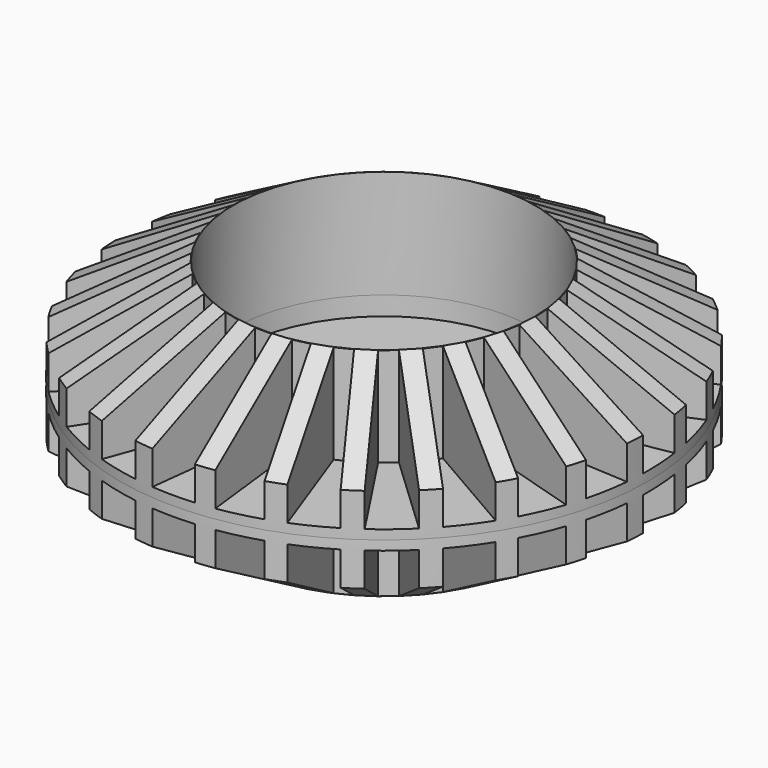
from build123d import *

# Parameters (mm, degrees)
F0_R      = 88.9
F0_R_2    = 50.8
F1_DEPTH  = 50.8
F2_DEPTH  = 6.35
F3_R      = 50.8
F4_DEPTH  = 38.1
F7_R      = 12.7
F8_DEPTH  = 25.4
F9_DEPTH  = 9.525
F11_R     = 50.8
F12_DEPTH = 3.175
F13_R     = 12.7
F14_DEPTH = 25.4


with BuildPart() as f1:
    # F0 (on Top) → F1 (new body)
    with BuildSketch(Plane.XY):
        Circle(F0_R)
        Circle(F0_R_2, mode=Mode.SUBTRACT)
    extrude(amount=F1_DEPTH)

    # F0 (on Top) → F2 (join)
    with BuildSketch(Plane.XY):
        Circle(F0_R_2)
    extrude(amount=F2_DEPTH)

    # F3 (on face) → F4 (cut)
    with BuildSketch(Plane.XY.offset(50.8)):
        with BuildLine():
            ThreePointArc((54.6751720039, 70.0987558117), (48.8513481505, 74.2748664346), (42.7100773231, 77.968322382))
            Line((42.7100773231, 77.968322382), (25.6362819872, 43.9716007313))
            ThreePointArc((25.6362819872, 43.9716007313), (27.9695245399, 42.5255960806), (30.2214194652, 40.9559083712))
            Line((30.2214194652, 40.9559083712), (54.6751720039, 70.0987558117))
        make_face()
        with BuildLine():
            ThreePointArc((37.035510057, 80.8181971762), (30.4055907417, 83.5386739879), (23.5780891048, 85.7162978328))
            Line((23.5780891048, 85.7162978328), (14.8047036978, 48.6984740358))
            ThreePointArc((14.8047036978, 48.6984740358), (17.4085250171, 47.8295293906), (19.9617147212, 46.8214755256))
            Line((19.9617147212, 46.8214755256), (37.035510057, 80.8181971762))
        make_face()
        with BuildLine():
            ThreePointArc((17.3992541767, 87.180708612), (10.3206600657, 88.2988900033), (3.175, 88.8432854807))
            Line((3.175, 88.8432854807), (3.175, 50.8))
            ThreePointArc((3.175, 50.8), (5.9090274047, 50.554960391), (8.6258687696, 50.1628848151))
            Line((8.6258687696, 50.1628848151), (17.3992541767, 87.180708612))
        make_face()
        with BuildLine():
            Line((-3.175, 50.8), (-3.175, 88.8432854807))
            ThreePointArc((-3.175, 88.8432854807), (-10.3206600657, 88.2988900033), (-17.3992541767, 87.180708612))
            Line((-17.3992541767, 87.180708612), (-8.6258687696, 50.1628848151))
            ThreePointArc((-8.6258687696, 50.1628848151), (-5.9090274047, 50.554960391), (-3.175, 50.8))
        make_face()
        with BuildLine():
            Line((-14.8047036978, 48.6984740358), (-23.5780891048, 85.7162978328))
            ThreePointArc((-23.5780891048, 85.7162978328), (-30.4055907417, 83.5386739879), (-37.035510057, 80.8181971762))
            Line((-37.035510057, 80.8181971762), (-19.9617147212, 46.8214755256))
            ThreePointArc((-19.9617147212, 46.8214755256), (-17.4085250171, 47.8295293906), (-14.8047036978, 48.6984740358))
        make_face()
        with BuildLine():
            Line((-25.6362819872, 43.9716007313), (-42.7100773231, 77.968322382))
            ThreePointArc((-42.7100773231, 77.968322382), (-48.8513481505, 74.2748664346), (-54.6751720039, 70.0987558117))
            Line((-54.6751720039, 70.0987558117), (-30.2214194652, 40.9559083712))
            ThreePointArc((-30.2214194652, 40.9559083712), (-27.9695245399, 42.5255960806), (-25.6362819872, 43.9716007313))
        make_face()
        with BuildLine():
            Line((-35.085801679, 36.8742070497), (-59.5395542177, 66.0170544901))
            ThreePointArc((-59.5395542177, 66.0170544901), (-64.6635167358, 61.0068816065), (-69.3672812759, 55.6002723769))
            Line((-69.3672812759, 55.6002723769), (-38.8518796633, 32.8823975955))
            ThreePointArc((-38.8518796633, 32.8823975955), (-37.0226797551, 34.9290968786), (-35.085801679, 36.8742070497))
        make_face()
        with BuildLine():
            Line((-42.6438367206, 27.7889153215), (-73.1592383333, 50.5067901029))
            ThreePointArc((-73.1592383333, 50.5067901029), (-76.9896583964, 44.45), (-80.3197824593, 38.1043638667))
            Line((-80.3197824593, 38.1043638667), (-45.3878249723, 23.0361882541))
            ThreePointArc((-45.3878249723, 23.0361882541), (-44.0799327217, 25.4495610227), (-42.6438367206, 27.7889153215))
        make_face()
        with BuildLine():
            Line((-47.9029314867, 17.2055159754), (-82.8348889737, 32.273691588))
            ThreePointArc((-82.8348889737, 32.273691588), (-85.1652676448, 25.496807388), (-86.9422233803, 18.5542392375))
            Line((-86.9422233803, 18.5542392375), (-49.4769008889, 11.9480920413))
            ThreePointArc((-49.4769008889, 11.9480920413), (-48.7608251056, 14.5980327448), (-47.9029314867, 17.2055159754))
        make_face()
        with BuildLine():
            Line((-50.5795668171, 5.6945628097), (-88.0448893085, 12.3007100058))
            ThreePointArc((-88.0448893085, 12.3007100058), (-88.7495952703, 5.1690752901), (-88.8775865348, -1.9961492316))
            Line((-88.8775865348, -1.9961492316), (-50.898664272, 0.2158710939))
            ThreePointArc((-50.898664272, 0.2158710939), (-50.8130087868, 2.959520743), (-50.5795668171, 5.6945628097))
        make_face()
        with BuildLine():
            Line((-50.5294446084, -6.1233857112), (-88.5083668712, -8.3354060366))
            ThreePointArc((-88.5083668712, -8.3354060366), (-87.5494092428, -15.4373229946), (-86.021535994, -22.4389247789))
            Line((-86.021535994, -22.4389247789), (-49.5764674895, -11.5279875201))
            ThreePointArc((-49.5764674895, -11.5279875201), (-50.1258500119, -8.838539788), (-50.5294446084, -6.1233857112))
        make_face()
        with BuildLine():
            Line((-47.7552669618, -17.6112209233), (-84.2003354663, -28.5221581821))
            ThreePointArc((-84.2003354663, -28.5221581821), (-81.6294119017, -35.2114912009), (-78.5280421819, -41.6720120833))
            Line((-78.5280421819, -41.6720120833), (-45.5815905122, -22.650369343))
            ThreePointArc((-45.5815905122, -22.650369343), (-46.7363936882, -20.1601123514), (-47.7552669618, -17.6112209233))
        make_face()
        with BuildLine():
            Line((-42.4065905122, -28.149630657), (-75.3530421819, -47.1712733974))
            ThreePointArc((-75.3530421819, -47.1712733974), (-71.3087518359, -53.0873988024), (-66.8010812896, -58.6585504299))
            Line((-66.8010812896, -58.6585504299), (-39.1293981921, -32.5516638917))
            ThreePointArc((-39.1293981921, -32.5516638917), (-40.8273662835, -30.3948480396), (-42.4065905122, -28.149630657))
        make_face()
        with BuildLine():
            Line((-34.7717637917, -37.1704865157), (-62.4434468892, -63.2773730539))
            ThreePointArc((-62.4434468892, -63.2773730539), (-57.1438185011, -68.1013509933), (-51.4728568142, -72.4827911396))
            Line((-51.4728568142, -72.4827911396), (-30.5677298872, -40.6980898144))
            ThreePointArc((-30.5677298872, -40.6980898144), (-32.7173249948, -38.9909896026), (-34.7717637917, -37.1704865157))
        make_face()
        with BuildLine():
            Line((-25.2623822848, -44.1874718252), (-46.1675092117, -75.9721731504))
            ThreePointArc((-46.1675092117, -75.9721731504), (-39.8982471198, -79.4439417248), (-33.3697173046, -82.3994658175))
            Line((-33.3697173046, -82.3994658175), (-20.3581473519, -46.6504711809))
            ThreePointArc((-20.3581473519, -46.6504711809), (-22.8434842469, -45.4851168236), (-25.2623822848, -44.1874718252))
        make_face()
        with BuildLine():
            Line((-14.3910992099, -48.822299091), (-27.4026691626, -84.5712937276))
            ThreePointArc((-27.4026691626, -84.5712937276), (-20.501750909, -86.5036889945), (-13.4676076977, -87.8739639649))
            Line((-13.4676076977, -87.8739639649), (-9.0510518234, -50.0879135709))
            ThreePointArc((-9.0510518234, -50.0879135709), (-11.7381453505, -49.5271296234), (-14.3910992099, -48.822299091))
        make_face()
        with BuildLine():
            Line((-2.7439882517, -50.8251035756), (-7.1605441261, -88.6111539696))
            ThreePointArc((-7.1605441261, -88.6111539696), (0, -88.9), (7.1605441261, -88.6111539696))
            Line((7.1605441261, -88.6111539696), (2.7439882517, -50.8251035756))
            ThreePointArc((2.7439882517, -50.8251035756), (0, -50.8991220455), (-2.7439882517, -50.8251035756))
        make_face()
        with BuildLine():
            ThreePointArc((13.4676076977, -87.8739639649), (20.501750909, -86.5036889945), (27.4026691626, -84.5712937276))
            Line((27.4026691626, -84.5712937276), (14.3910992099, -48.822299091))
            ThreePointArc((14.3910992099, -48.822299091), (11.7381453505, -49.5271296234), (9.0510518234, -50.0879135709))
            Line((9.0510518234, -50.0879135709), (13.4676076977, -87.8739639649))
        make_face()
        with BuildLine():
            ThreePointArc((33.3697173046, -82.3994658175), (39.8982471198, -79.4439417248), (46.1675092117, -75.9721731504))
            Line((46.1675092117, -75.9721731504), (25.2623822848, -44.1874718252))
            ThreePointArc((25.2623822848, -44.1874718252), (22.8434842469, -45.4851168236), (20.3581473519, -46.6504711809))
            Line((20.3581473519, -46.6504711809), (33.3697173046, -82.3994658175))
        make_face()
        with BuildLine():
            ThreePointArc((51.4728568142, -72.4827911396), (57.1438185011, -68.1013509933), (62.4434468892, -63.2773730539))
            Line((62.4434468892, -63.2773730539), (34.7717637917, -37.1704865157))
            ThreePointArc((34.7717637917, -37.1704865157), (32.7173249948, -38.9909896026), (30.5677298872, -40.6980898144))
            Line((30.5677298872, -40.6980898144), (51.4728568142, -72.4827911396))
        make_face()
        with BuildLine():
            ThreePointArc((66.8010812896, -58.6585504299), (71.3087518359, -53.0873988024), (75.3530421819, -47.1712733974))
            Line((75.3530421819, -47.1712733974), (42.4065905122, -28.149630657))
            ThreePointArc((42.4065905122, -28.149630657), (40.8273662835, -30.3948480396), (39.1293981921, -32.5516638917))
            Line((39.1293981921, -32.5516638917), (66.8010812896, -58.6585504299))
        make_face()
        with BuildLine():
            ThreePointArc((78.5280421819, -41.6720120833), (81.6294119017, -35.2114912009), (84.2003354663, -28.5221581821))
            Line((84.2003354663, -28.5221581821), (47.7552669618, -17.6112209233))
            ThreePointArc((47.7552669618, -17.6112209233), (46.7363936882, -20.1601123514), (45.5815905122, -22.650369343))
            Line((45.5815905122, -22.650369343), (78.5280421819, -41.6720120833))
        make_face()
        with BuildLine():
            ThreePointArc((86.021535994, -22.4389247789), (87.5494092428, -15.4373229946), (88.5083668712, -8.3354060366))
            Line((88.5083668712, -8.3354060366), (50.5294446084, -6.1233857112))
            ThreePointArc((50.5294446084, -6.1233857112), (50.1258500119, -8.838539788), (49.5764674895, -11.5279875201))
            Line((49.5764674895, -11.5279875201), (86.021535994, -22.4389247789))
        make_face()
        with BuildLine():
            ThreePointArc((88.9, 0), (88.6859646718, 6.1651983128), (88.0448893085, 12.3007100058))
            Line((88.0448893085, 12.3007100058), (50.5795668171, 5.6945628097))
            ThreePointArc((50.5795668171, 5.6945628097), (50.8130087868, 2.959520743), (50.898664272, 0.2158710939))
            Line((50.898664272, 0.2158710939), (88.8775865348, -1.9961492316))
            ThreePointArc((88.8775865348, -1.9961492316), (88.8943964571, -0.9981375304), (88.9, 0))
        make_face()
        with BuildLine():
            ThreePointArc((86.9422233803, 18.5542392375), (85.1652676448, 25.496807388), (82.8348889737, 32.273691588))
            Line((82.8348889737, 32.273691588), (47.9029314867, 17.2055159754))
            ThreePointArc((47.9029314867, 17.2055159754), (48.7608251056, 14.5980327448), (49.4769008889, 11.9480920413))
            Line((49.4769008889, 11.9480920413), (86.9422233803, 18.5542392375))
        make_face()
        with BuildLine():
            ThreePointArc((80.3197824593, 38.1043638667), (76.9896583964, 44.45), (73.1592383333, 50.5067901029))
            Line((73.1592383333, 50.5067901029), (42.6438367206, 27.7889153215))
            ThreePointArc((42.6438367206, 27.7889153215), (44.0799327217, 25.4495610227), (45.3878249723, 23.0361882541))
            Line((45.3878249723, 23.0361882541), (80.3197824593, 38.1043638667))
        make_face()
        with BuildLine():
            ThreePointArc((69.3672812759, 55.6002723769), (64.6635167358, 61.0068816065), (59.5395542177, 66.0170544901))
            Line((59.5395542177, 66.0170544901), (35.085801679, 36.8742070497))
            ThreePointArc((35.085801679, 36.8742070497), (37.0226797551, 34.9290968786), (38.8518796633, 32.8823975955))
            Line((38.8518796633, 32.8823975955), (69.3672812759, 55.6002723769))
        make_face()
        Circle(F3_R)
    extrude(amount=-F4_DEPTH, mode=Mode.SUBTRACT)

    # F5 (on Front) → F6 (revolve, cut)
    with BuildSketch(Plane.XZ):
        Polygon((89.8946896195, 23.4753768891), (89.8946896195, 0), (91.4799943566, -12.8754554316), (154.6150743961, -12.8754554316), (107.9764664173, 74.030444026), (41.7943418689, 51.2461256111), align=None)
    revolve(axis=Axis((0, 0, 0), (0, 0, 1)), mode=Mode.SUBTRACT)

    # F7 (on face) → F8 (cut)
    with BuildSketch(Plane.XY.offset(6.35)):
        Circle(F7_R)
    extrude(amount=-F8_DEPTH, mode=Mode.SUBTRACT)

    # F9 (cut): a face of the model
    f9_faces = [f1.faces().sort_by_distance(p)[0] for p in [
        (-86.3855282861, 0, 0),
    ]]
    extrude(f9_faces, amount=-F9_DEPTH, mode=Mode.SUBTRACT)

    # F10: F1 across face


with BuildPart() as f1_1:
    add(f1.part)
    add(f1.part.mirror(Plane(origin=(0, 0, 9.525), x_dir=(1, 0, 0), z_dir=(0, 0, -1))))

    # F11 (on Top) → F12 (join, symmetric)
    with BuildSketch(Plane.XY):
        Circle(F11_R)
    extrude(amount=F12_DEPTH, both=True)

    # F13 (on face) → F14 (cut)
    with BuildSketch(Plane.XY.offset(3.175)):
        Circle(F13_R)
    extrude(amount=-F14_DEPTH, mode=Mode.SUBTRACT)


solid = f1_1.part
